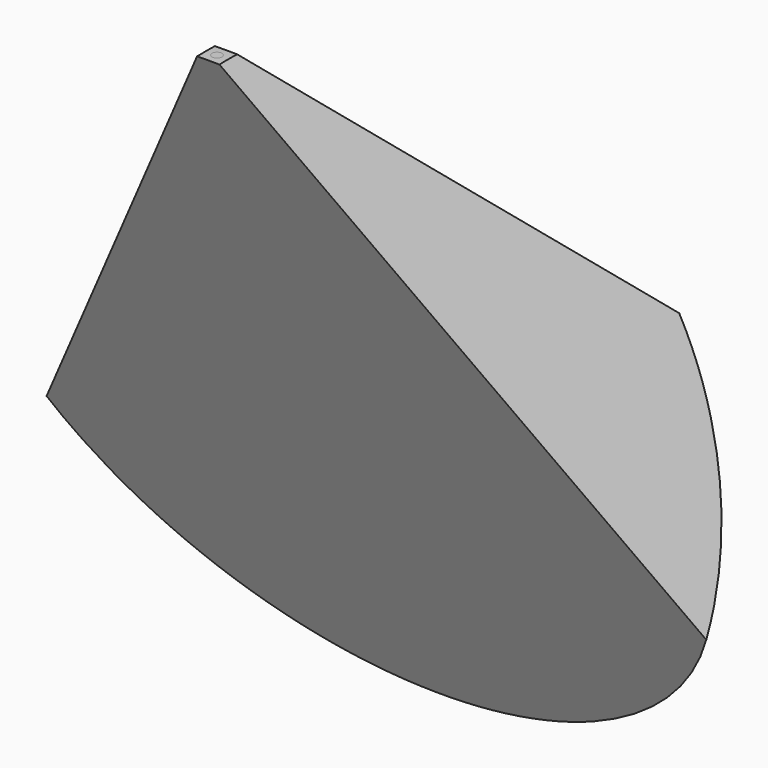
from build123d import *

# Parameters (mm, degrees)
F2_W = 25.4
F2_H = 25.4
F0_W = 1219.2
F0_H = 609.6


with BuildPart() as f3:
    # F2 (on offset) → F3 section 0
    with BuildSketch(Plane.XY.offset(914.4)):
        Rectangle(F2_W, F2_H)
    # F0 (on Top) → F3 section 1
    with BuildSketch(Plane.XY):
        with Locations((0, 685.8)):
            Rectangle(F0_W, F0_H)
    loft()

    # F4 (on Right) → F5 (revolve, intersect)
    with BuildSketch(Plane.YZ):
        with BuildLine():
            ThreePointArc((0, 0), (457.218051, 457.218051), (0, 914.436102))
            Line((0, 914.436102), (0, 0))
        make_face()
    revolve(axis=Axis((0, 0, 457.218051), (0, 0, -1)), mode=Mode.INTERSECT)


solid = f3.part
